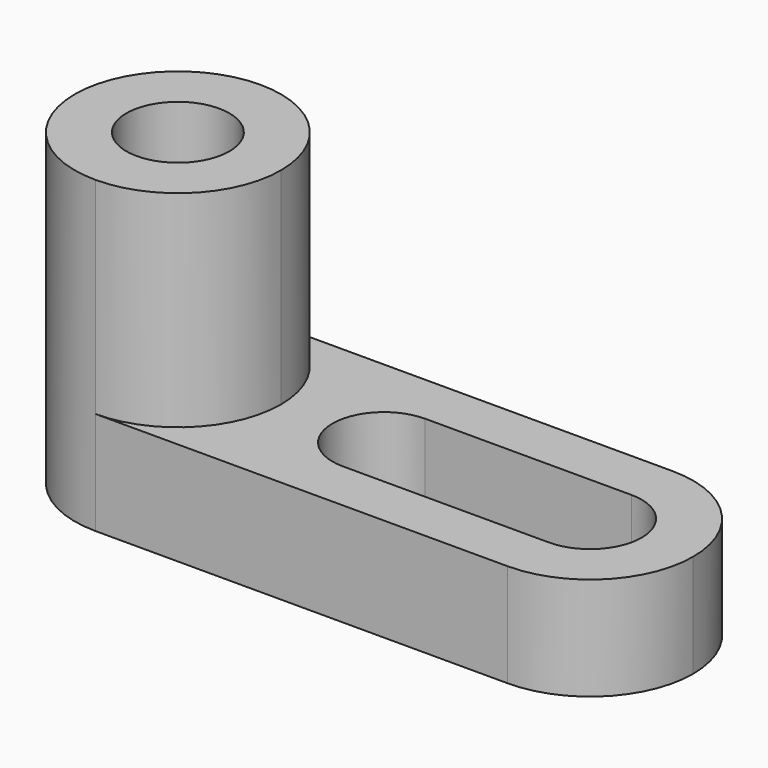
from build123d import *

# Parameters (mm, degrees)
F0_W     = 76.2
F0_H     = 38.1
F1_DEPTH = 25.4
F2_W     = 50.8
F2_H     = 25.4
F3_DEPTH = 25.4
F5_DEPTH = 25.4
F6_R     = 6.35
F7_DEPTH = 76.2
F9_DEPTH = 25.4


with BuildPart() as f1:
    # F0 (on Front) → F1 (new body)
    with BuildSketch(Plane.XZ):
        with Locations((-38.5294473178, 19.05)):
            Rectangle(F0_W, F0_H)
    extrude(amount=F1_DEPTH)

    # F2 (on face) → F3 (cut)
    with BuildSketch(Plane.XZ.offset(25.4)):
        with Locations((-25.8294473178, 25.4)):
            Rectangle(F2_W, F2_H)
    extrude(amount=-F3_DEPTH, mode=Mode.SUBTRACT)

    # F4 (on face) → F5 (cut)
    with BuildSketch(Plane.XY.offset(12.7)):
        with BuildLine():
            ThreePointArc((-38.5294473178, -19.05), (-34.0393192573, -17.1901280605), (-32.1794473178, -12.7))
            ThreePointArc((-32.1794473178, -12.7), (-34.0393192573, -8.2098719395), (-38.5294473178, -6.35))
            ThreePointArc((-38.5294473178, -6.35), (-44.8794473178, -12.7), (-38.5294473178, -19.05))
        make_face()
        with BuildLine():
            ThreePointArc((-38.5294473178, -6.35), (-34.0393192573, -8.2098719395), (-32.1794473178, -12.7))
            ThreePointArc((-32.1794473178, -12.7), (-34.0393192573, -17.1901280605), (-38.5294473178, -19.05))
            Line((-38.5294473178, -19.05), (-13.1294473178, -19.05))
            ThreePointArc((-13.1294473178, -19.05), (-19.4794473178, -12.7), (-13.1294473178, -6.35))
            Line((-13.1294473178, -6.35), (-38.5294473178, -6.35))
        make_face()
        with BuildLine():
            ThreePointArc((-6.7794473178, -12.7), (-8.6393192573, -8.2098719395), (-13.1294473178, -6.35))
            ThreePointArc((-13.1294473178, -6.35), (-19.4794473178, -12.7), (-13.1294473178, -19.05))
            ThreePointArc((-13.1294473178, -19.05), (-8.6393192573, -17.1901280605), (-6.7794473178, -12.7))
        make_face()
        with BuildLine():
            ThreePointArc((-13.1294473178, 0), (-4.1491911968, -3.7197438789), (-0.4294473178, -12.7))
            Line((-0.4294473178, -12.7), (-0.4294473178, 0))
            Line((-0.4294473178, 0), (-13.1294473178, 0))
        make_face()
        with BuildLine():
            ThreePointArc((-0.4294473178, -12.7), (-4.1491911968, -21.6802561211), (-13.1294473178, -25.4))
            Line((-13.1294473178, -25.4), (-0.4294473178, -25.4))
            Line((-0.4294473178, -25.4), (-0.4294473178, -12.7))
        make_face()
    extrude(amount=-F5_DEPTH, mode=Mode.SUBTRACT)

    # F6 (on face) → F7 (cut)
    with BuildSketch(Plane.XY.offset(38.1)):
        with Locations((-63.9294473178, -12.7)):
            Circle(F6_R)
        with BuildLine():
            ThreePointArc((-76.6294473178, -12.7), (-72.9097034389, -3.7197438789), (-63.9294473178, 0))
            Line((-63.9294473178, 0), (-76.6294473178, 0))
            Line((-76.6294473178, 0), (-76.6294473178, -12.7))
        make_face()
        with BuildLine():
            Line((-76.6294473178, -25.4), (-63.9294473178, -25.4))
            ThreePointArc((-63.9294473178, -25.4), (-72.9097034389, -21.6802561211), (-76.6294473178, -12.7))
            Line((-76.6294473178, -12.7), (-76.6294473178, -25.4))
        make_face()
    extrude(amount=-F7_DEPTH, mode=Mode.SUBTRACT)

    # F8 (on face) → F9 (cut)
    with BuildSketch(Plane.XY.offset(38.1)):
        with BuildLine():
            ThreePointArc((-63.9294473178, 0), (-54.9491911968, -3.7197438789), (-51.2294473178, -12.7))
            Line((-51.2294473178, -12.7), (-51.2294473178, 0))
            Line((-51.2294473178, 0), (-63.9294473178, 0))
        make_face()
        with BuildLine():
            Line((-51.2294473178, -25.4), (-51.2294473178, -12.7))
            ThreePointArc((-51.2294473178, -12.7), (-54.9491911968, -21.6802561211), (-63.9294473178, -25.4))
            Line((-63.9294473178, -25.4), (-51.2294473178, -25.4))
        make_face()
    extrude(amount=-F9_DEPTH, mode=Mode.SUBTRACT)


solid = f1.part
